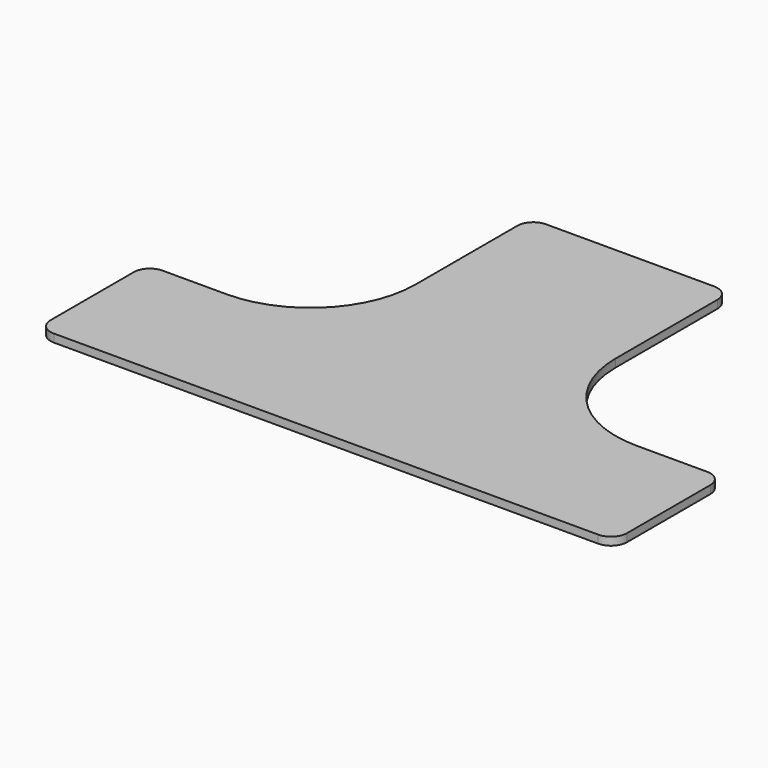
from build123d import *

# Parameters (mm, degrees)
PAD_DEPTH = 1


with BuildPart() as part:
    # Sketch → Pad (new body)
    with BuildSketch(Plane.XY):
        with BuildLine():
            Line((-33.589696, -18.878848), (34.410304, -18.878848))
            ThreePointArc((34.410304, -18.878848), (35.824517, -18.293062), (36.410304, -16.878848))
            Line((36.410304, -3.878848), (36.410304, -16.878848))
            ThreePointArc((36.410304, -3.878848), (35.824517, -2.464635), (34.410304, -1.878848))
            Line((25.618126, -1.878848), (34.410304, -1.878848))
            ThreePointArc((12.5, 11.239278), (16.34221, 1.963362), (25.618126, -1.878848))
            Line((12.5, 27.121152), (12.5, 11.239278))
            ThreePointArc((12.5, 27.121152), (11.914214, 28.535365), (10.5, 29.121152))
            Line((-10.5, 29.121152), (10.5, 29.121152))
            ThreePointArc((-10.5, 29.121152), (-11.914214, 28.535365), (-12.5, 27.121152))
            Line((-12.5, 27.121152), (-12.5, 11.239278))
            ThreePointArc((-25.618126, -1.878848), (-16.34221, 1.963362), (-12.5, 11.239278))
            Line((-33.589696, -1.878848), (-25.618126, -1.878848))
            ThreePointArc((-33.589696, -1.878848), (-35.00391, -2.464635), (-35.589696, -3.878848))
            Line((-35.589696, -3.878848), (-35.589696, -16.878848))
            ThreePointArc((-35.589696, -16.878848), (-35.00391, -18.293062), (-33.589696, -18.878848))
        make_face()
    extrude(amount=PAD_DEPTH)


solid = part.part
